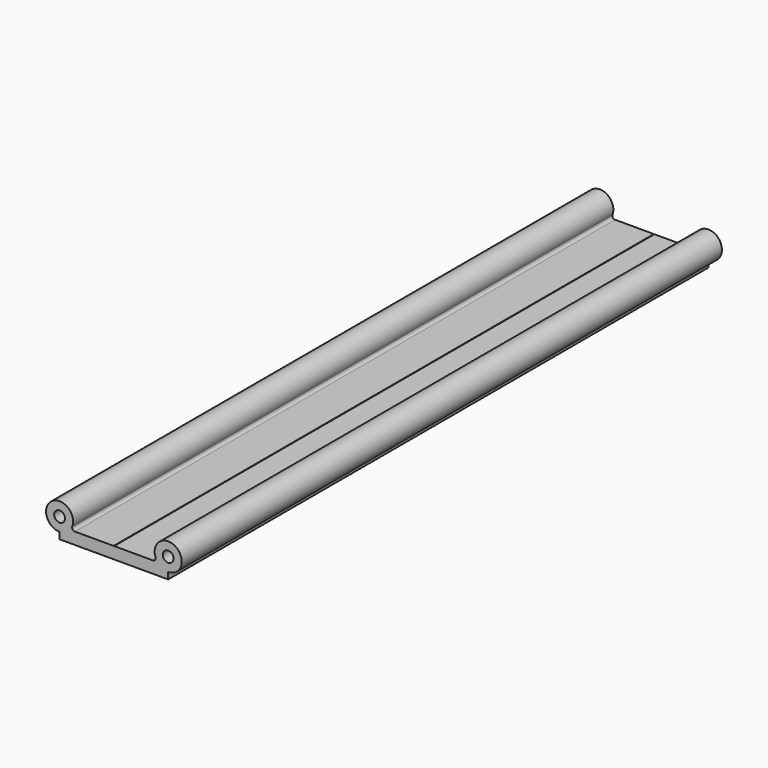
from build123d import *

# Parameters (mm, degrees)
F1_DEPTH = 250
F2_R     = 2
F3_DEPTH = 10


with BuildPart() as f1:
    # F0 (on Front) → F1 (new body)
    with BuildSketch(Plane.XZ):
        with BuildLine():
            ThreePointArc((-14.464956, -3.06065), (-15.284542, -2.633606), (-15.40413, -1.717208))
            ThreePointArc((-15.40413, -1.717208), (-22.964783, 4.097929), (-20.1, -5))
            Line((-20.1, -5), (-20.1, -7.433158))
            Line((-20.1, -7.433158), (20.1, -7.433158))
            Line((20.1, -7.433158), (20.1, -5))
            ThreePointArc((20.1, -5), (22.964783, 4.097929), (15.40413, -1.717208))
            ThreePointArc((15.40413, -1.717208), (15.284542, -2.633606), (14.464956, -3.06065))
            Line((14.464956, -3.06065), (0.1, -3.06065))
            Line((0.1, -3.06065), (0, -3.16065))
            Line((0, -3.16065), (-0.1, -3.06065))
            Line((-0.1, -3.06065), (-14.464956, -3.06065))
        make_face()
    extrude(amount=-F1_DEPTH)

    # F2 (on face) → F3 (cut)
    with BuildSketch(Plane.XZ):
        with Locations((-20.1, 0)):
            Circle(F2_R)
        with Locations((20.1, 0)):
            Circle(F2_R)
    extrude(amount=-F3_DEPTH, mode=Mode.SUBTRACT)


solid = f1.part
